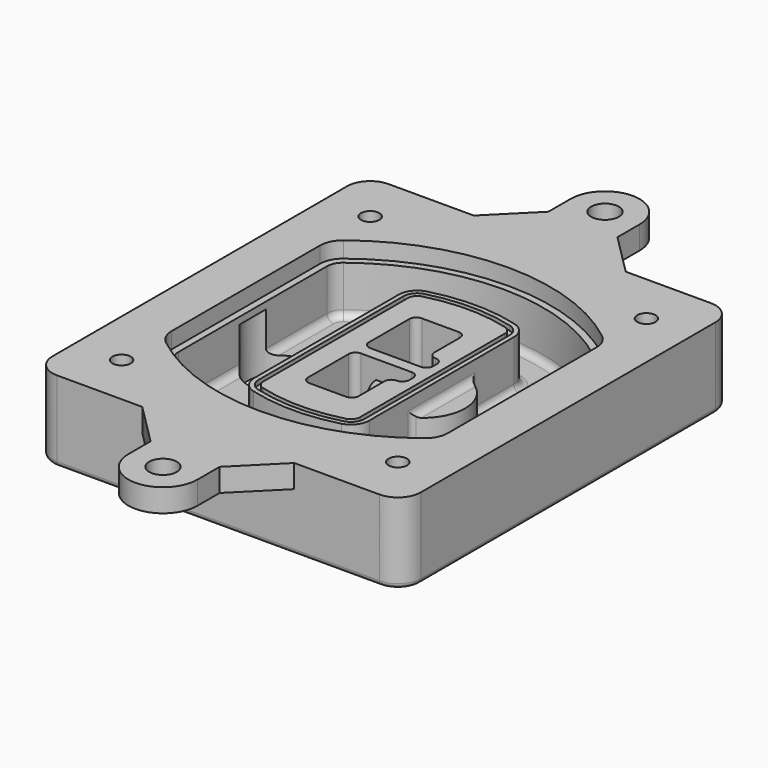
from build123d import *

# Parameters (mm, degrees)
F0_R      = 4
F1_DEPTH  = 25
F2_DEPTH  = 3
F3_DEPTH  = 18
F5_DEPTH  = 21
F6_DEPTH  = 2
F8_DEPTH  = 20
F9_DEPTH  = 16
F10_DEPTH = 25
F7_R      = 6
F7_R_2    = 4
F11_DEPTH = 6
F13_DEPTH = 9
F14_R     = 3
F15_R     = 2
F16_R     = 4
F16_R_2   = 6
F17_DEPTH = 10


with BuildPart() as f1:
    # F0 (on Top) → F1 (new body)
    with BuildSketch(Plane.XY):
        with BuildLine():
            ThreePointArc((-80, -80), (-77.0710678119, -87.0710678119), (-70, -90))
            Line((-70, -90), (70, -90))
            ThreePointArc((70, -90), (77.0710678119, -87.0710678119), (80, -80))
            Line((80, -80), (80, 80))
            ThreePointArc((80, 80), (77.0710678119, 87.0710678119), (70, 90))
            Line((70, 90), (-70, 90))
            ThreePointArc((-70, 90), (-77.0710678119, 87.0710678119), (-80, 80))
            Line((-80, 80), (-80, -80))
        make_face()
        with Locations((-60, -67.5)):
            Circle(F0_R, mode=Mode.SUBTRACT)
        with Locations((60, -67.5)):
            Circle(F0_R, mode=Mode.SUBTRACT)
        with Locations((-60, 67.5)):
            Circle(F0_R, mode=Mode.SUBTRACT)
        with BuildLine():
            ThreePointArc((-64, 40.2934422872), (-62.5820384798, 46.4328484224), (-58.6153846154, 51.3286200352))
            ThreePointArc((-58.6153846154, 51.3286200352), (0, 71.5), (58.6153846154, 51.3286200352))
            ThreePointArc((58.6153846154, 51.3286200352), (62.5820384798, 46.4328484224), (64, 40.2934422872))
            Line((64, 40.2934422872), (64, -40.2934422872))
            ThreePointArc((64, -40.2934422872), (62.5820384798, -46.4328484224), (58.6153846154, -51.3286200352))
            ThreePointArc((58.6153846154, -51.3286200352), (0, -71.5), (-58.6153846154, -51.3286200352))
            ThreePointArc((-58.6153846154, -51.3286200352), (-62.5820384798, -46.4328484224), (-64, -40.2934422872))
            Line((-64, -40.2934422872), (-64, 40.2934422872))
        make_face(mode=Mode.SUBTRACT)
        with Locations((60, 67.5)):
            Circle(F0_R, mode=Mode.SUBTRACT)
        with BuildLine():
            ThreePointArc((58.6153846154, 51.3286200352), (0, 71.5), (-58.6153846154, 51.3286200352))
            ThreePointArc((-58.6153846154, 51.3286200352), (-62.5820384798, 46.4328484224), (-64, 40.2934422872))
            Line((-64, 40.2934422872), (-64, -40.2934422872))
            ThreePointArc((-64, -40.2934422872), (-62.5820384798, -46.4328484224), (-58.6153846154, -51.3286200352))
            ThreePointArc((-58.6153846154, -51.3286200352), (0, -71.5), (58.6153846154, -51.3286200352))
            ThreePointArc((58.6153846154, -51.3286200352), (62.5820384798, -46.4328484224), (64, -40.2934422872))
            Line((64, -40.2934422872), (64, 40.2934422872))
            ThreePointArc((64, 40.2934422872), (62.5820384798, 46.4328484224), (58.6153846154, 51.3286200352))
        make_face()
        with BuildLine():
            Line((-60, -40.2934422872), (-60, 40.2934422872))
            ThreePointArc((-60, 40.2934422872), (-58.9871703427, 44.6787323838), (-56.1538461538, 48.1757121072))
            ThreePointArc((-56.1538461538, 48.1757121072), (0, 67.5), (56.1538461538, 48.1757121072))
            ThreePointArc((56.1538461538, 48.1757121072), (58.9871703427, 44.6787323838), (60, 40.2934422872))
            Line((60, 40.2934422872), (60, -40.2934422872))
            ThreePointArc((60, -40.2934422872), (58.9871703427, -44.6787323838), (56.1538461538, -48.1757121072))
            ThreePointArc((56.1538461538, -48.1757121072), (0, -67.5), (-56.1538461538, -48.1757121072))
            ThreePointArc((-56.1538461538, -48.1757121072), (-58.9871703427, -44.6787323838), (-60, -40.2934422872))
        make_face(mode=Mode.SUBTRACT)
        with BuildLine():
            ThreePointArc((-56.1538461538, 48.1757121072), (-58.9871703427, 44.6787323838), (-60, 40.2934422872))
            Line((-60, 40.2934422872), (-60, -40.2934422872))
            ThreePointArc((-60, -40.2934422872), (-58.9871703427, -44.6787323838), (-56.1538461538, -48.1757121072))
            ThreePointArc((-56.1538461538, -48.1757121072), (0, -67.5), (56.1538461538, -48.1757121072))
            ThreePointArc((56.1538461538, -48.1757121072), (58.9871703427, -44.6787323838), (60, -40.2934422872))
            Line((60, -40.2934422872), (60, 40.2934422872))
            ThreePointArc((60, 40.2934422872), (58.9871703427, 44.6787323838), (56.1538461538, 48.1757121072))
            ThreePointArc((56.1538461538, 48.1757121072), (0, 67.5), (-56.1538461538, 48.1757121072))
        make_face()
        with BuildLine():
            ThreePointArc((54.3076923077, 45.8110311612), (56.2910192399, 43.3631453548), (57, 40.2934422872))
            Line((57, 40.2934422872), (57, -40.2934422872))
            ThreePointArc((57, -40.2934422872), (56.2910192399, -43.3631453548), (54.3076923077, -45.8110311612))
            ThreePointArc((54.3076923077, -45.8110311612), (0, -64.5), (-54.3076923077, -45.8110311612))
            ThreePointArc((-54.3076923077, -45.8110311612), (-56.2910192399, -43.3631453548), (-57, -40.2934422872))
            Line((-57, -40.2934422872), (-57, 40.2934422872))
            ThreePointArc((-57, 40.2934422872), (-56.2910192399, 43.3631453548), (-54.3076923077, 45.8110311612))
            ThreePointArc((-54.3076923077, 45.8110311612), (0, 64.5), (54.3076923077, 45.8110311612))
        make_face(mode=Mode.SUBTRACT)
        with BuildLine():
            Line((57, -40.2934422872), (57, 40.2934422872))
            ThreePointArc((57, 40.2934422872), (56.2910192399, 43.3631453548), (54.3076923077, 45.8110311612))
            ThreePointArc((54.3076923077, 45.8110311612), (0, 64.5), (-54.3076923077, 45.8110311612))
            ThreePointArc((-54.3076923077, 45.8110311612), (-56.2910192399, 43.3631453548), (-57, 40.2934422872))
            Line((-57, 40.2934422872), (-57, -40.2934422872))
            ThreePointArc((-57, -40.2934422872), (-56.2910192399, -43.3631453548), (-54.3076923077, -45.8110311612))
            ThreePointArc((-54.3076923077, -45.8110311612), (0, -64.5), (54.3076923077, -45.8110311612))
            ThreePointArc((54.3076923077, -45.8110311612), (56.2910192399, -43.3631453548), (57, -40.2934422872))
        make_face()
    extrude(amount=-F1_DEPTH)

    # F0 (on Top) → F2 (join)
    with BuildSketch(Plane.XY):
        with BuildLine():
            ThreePointArc((-56.1538461538, 48.1757121072), (-58.9871703427, 44.6787323838), (-60, 40.2934422872))
            Line((-60, 40.2934422872), (-60, -40.2934422872))
            ThreePointArc((-60, -40.2934422872), (-58.9871703427, -44.6787323838), (-56.1538461538, -48.1757121072))
            ThreePointArc((-56.1538461538, -48.1757121072), (0, -67.5), (56.1538461538, -48.1757121072))
            ThreePointArc((56.1538461538, -48.1757121072), (58.9871703427, -44.6787323838), (60, -40.2934422872))
            Line((60, -40.2934422872), (60, 40.2934422872))
            ThreePointArc((60, 40.2934422872), (58.9871703427, 44.6787323838), (56.1538461538, 48.1757121072))
            ThreePointArc((56.1538461538, 48.1757121072), (0, 67.5), (-56.1538461538, 48.1757121072))
        make_face()
        with BuildLine():
            ThreePointArc((54.3076923077, 45.8110311612), (56.2910192399, 43.3631453548), (57, 40.2934422872))
            Line((57, 40.2934422872), (57, -40.2934422872))
            ThreePointArc((57, -40.2934422872), (56.2910192399, -43.3631453548), (54.3076923077, -45.8110311612))
            ThreePointArc((54.3076923077, -45.8110311612), (0, -64.5), (-54.3076923077, -45.8110311612))
            ThreePointArc((-54.3076923077, -45.8110311612), (-56.2910192399, -43.3631453548), (-57, -40.2934422872))
            Line((-57, -40.2934422872), (-57, 40.2934422872))
            ThreePointArc((-57, 40.2934422872), (-56.2910192399, 43.3631453548), (-54.3076923077, 45.8110311612))
            ThreePointArc((-54.3076923077, 45.8110311612), (0, 64.5), (54.3076923077, 45.8110311612))
        make_face(mode=Mode.SUBTRACT)
    extrude(amount=F2_DEPTH)

    # F0 (on Top) → F3 (cut)
    with BuildSketch(Plane.XY):
        with BuildLine():
            Line((57, -40.2934422872), (57, 40.2934422872))
            ThreePointArc((57, 40.2934422872), (56.2910192399, 43.3631453548), (54.3076923077, 45.8110311612))
            ThreePointArc((54.3076923077, 45.8110311612), (0, 64.5), (-54.3076923077, 45.8110311612))
            ThreePointArc((-54.3076923077, 45.8110311612), (-56.2910192399, 43.3631453548), (-57, 40.2934422872))
            Line((-57, 40.2934422872), (-57, -40.2934422872))
            ThreePointArc((-57, -40.2934422872), (-56.2910192399, -43.3631453548), (-54.3076923077, -45.8110311612))
            ThreePointArc((-54.3076923077, -45.8110311612), (0, -64.5), (54.3076923077, -45.8110311612))
            ThreePointArc((54.3076923077, -45.8110311612), (56.2910192399, -43.3631453548), (57, -40.2934422872))
        make_face()
    extrude(amount=-F3_DEPTH, mode=Mode.SUBTRACT)

    # F4 (on face) → F5 (join, through all)
    with BuildSketch(Plane.XY.offset(3)):
        with BuildLine():
            ThreePointArc((-25, -39.2465276821), (-23.3511545998, -44.1109737193), (-19.0842911877, -46.9702398883))
            ThreePointArc((-19.0842911877, -46.9702398883), (0, -49.5), (19.0842911877, -46.9702398883))
            ThreePointArc((19.0842911877, -46.9702398883), (23.3511545998, -44.1109737193), (25, -39.2465276821))
            Line((25, -39.2465276821), (25, 39.2465276821))
            ThreePointArc((25, 39.2465276821), (23.3511545998, 44.1109737193), (19.0842911877, 46.9702398883))
            ThreePointArc((19.0842911877, 46.9702398883), (0, 49.5), (-19.0842911877, 46.9702398883))
            ThreePointArc((-19.0842911877, 46.9702398883), (-23.3511545998, 44.1109737193), (-25, 39.2465276821))
            Line((-25, 39.2465276821), (-25, -39.2465276821))
        make_face()
        with BuildLine():
            ThreePointArc((18.5632183908, 45.0393118368), (21.7633659499, 42.89486221), (23, 39.2465276821))
            Line((23, 39.2465276821), (23, -39.2465276821))
            ThreePointArc((23, -39.2465276821), (21.7633659499, -42.89486221), (18.5632183908, -45.0393118368))
            ThreePointArc((18.5632183908, -45.0393118368), (0, -47.5), (-18.5632183908, -45.0393118368))
            ThreePointArc((-18.5632183908, -45.0393118368), (-21.7633659499, -42.89486221), (-23, -39.2465276821))
            Line((-23, -39.2465276821), (-23, 39.2465276821))
            ThreePointArc((-23, 39.2465276821), (-21.7633659499, 42.89486221), (-18.5632183908, 45.0393118368))
            ThreePointArc((-18.5632183908, 45.0393118368), (0, 47.5), (18.5632183908, 45.0393118368))
        make_face(mode=Mode.SUBTRACT)
        with BuildLine():
            Line((23, -39.2465276821), (23, 39.2465276821))
            ThreePointArc((23, 39.2465276821), (21.7633659499, 42.89486221), (18.5632183908, 45.0393118368))
            ThreePointArc((18.5632183908, 45.0393118368), (0, 47.5), (-18.5632183908, 45.0393118368))
            ThreePointArc((-18.5632183908, 45.0393118368), (-21.7633659499, 42.89486221), (-23, 39.2465276821))
            Line((-23, 39.2465276821), (-23, -39.2465276821))
            ThreePointArc((-23, -39.2465276821), (-21.7633659499, -42.89486221), (-18.5632183908, -45.0393118368))
            ThreePointArc((-18.5632183908, -45.0393118368), (0, -47.5), (18.5632183908, -45.0393118368))
            ThreePointArc((18.5632183908, -45.0393118368), (21.7633659499, -42.89486221), (23, -39.2465276821))
        make_face()
        with BuildLine():
            ThreePointArc((18.0421455939, 43.1083837852), (20.1755772999, 41.6787507007), (21, 39.2465276821))
            Line((21, 39.2465276821), (21, -39.2465276821))
            ThreePointArc((21, -39.2465276821), (20.1755772999, -41.6787507007), (18.0421455939, -43.1083837852))
            ThreePointArc((18.0421455939, -43.1083837852), (0, -45.5), (-18.0421455939, -43.1083837852))
            ThreePointArc((-18.0421455939, -43.1083837852), (-20.1755772999, -41.6787507007), (-21, -39.2465276821))
            Line((-21, -39.2465276821), (-21, 39.2465276821))
            ThreePointArc((-21, 39.2465276821), (-20.1755772999, 41.6787507007), (-18.0421455939, 43.1083837852))
            ThreePointArc((-18.0421455939, 43.1083837852), (0, 45.5), (18.0421455939, 43.1083837852))
        make_face(mode=Mode.SUBTRACT)
        with BuildLine():
            Line((21, -39.2465276821), (21, 39.2465276821))
            ThreePointArc((21, 39.2465276821), (20.1755772999, 41.6787507007), (18.0421455939, 43.1083837852))
            ThreePointArc((18.0421455939, 43.1083837852), (0, 45.5), (-18.0421455939, 43.1083837852))
            ThreePointArc((-18.0421455939, 43.1083837852), (-20.1755772999, 41.6787507007), (-21, 39.2465276821))
            Line((-21, 39.2465276821), (-21, -39.2465276821))
            ThreePointArc((-21, -39.2465276821), (-20.1755772999, -41.6787507007), (-18.0421455939, -43.1083837852))
            ThreePointArc((-18.0421455939, -43.1083837852), (0, -45.5), (18.0421455939, -43.1083837852))
            ThreePointArc((18.0421455939, -43.1083837852), (20.1755772999, -41.6787507007), (21, -39.2465276821))
        make_face()
        with BuildLine():
            Line((-8, -2.5), (14, -2.5))
            ThreePointArc((14, -2.5), (16.1213203436, -3.3786796564), (17, -5.5))
            Line((17, -5.5), (17, -7.5))
            ThreePointArc((17, -7.5), (16.1213203436, -9.6213203436), (14, -10.5))
            ThreePointArc((14, -10.5), (11.8786796564, -11.3786796564), (11, -13.5))
            Line((11, -13.5), (11, -27.5))
            ThreePointArc((11, -27.5), (10.1213203436, -29.6213203436), (8, -30.5))
            Line((8, -30.5), (-8, -30.5))
            ThreePointArc((-8, -30.5), (-10.1213203436, -29.6213203436), (-11, -27.5))
            Line((-11, -27.5), (-11, -5.5))
            ThreePointArc((-11, -5.5), (-10.1213203436, -3.3786796564), (-8, -2.5))
        make_face(mode=Mode.SUBTRACT)
        with BuildLine():
            ThreePointArc((-8, 2.5), (-10.1213203436, 3.3786796564), (-11, 5.5))
            Line((-11, 5.5), (-11, 27.5))
            ThreePointArc((-11, 27.5), (-10.1213203436, 29.6213203436), (-8, 30.5))
            Line((-8, 30.5), (8, 30.5))
            ThreePointArc((8, 30.5), (10.1213203436, 29.6213203436), (11, 27.5))
            Line((11, 27.5), (11, 13.5))
            ThreePointArc((11, 13.5), (11.8786796564, 11.3786796564), (14, 10.5))
            ThreePointArc((14, 10.5), (16.1213203436, 9.6213203436), (17, 7.5))
            Line((17, 7.5), (17, 5.5))
            ThreePointArc((17, 5.5), (16.1213203436, 3.3786796564), (14, 2.5))
            Line((14, 2.5), (-8, 2.5))
        make_face(mode=Mode.SUBTRACT)
    extrude(amount=-F5_DEPTH)

    # F4 (on face) → F6 (cut)
    with BuildSketch(Plane.XY.offset(3)):
        with BuildLine():
            Line((23, -39.2465276821), (23, 39.2465276821))
            ThreePointArc((23, 39.2465276821), (21.7633659499, 42.89486221), (18.5632183908, 45.0393118368))
            ThreePointArc((18.5632183908, 45.0393118368), (0, 47.5), (-18.5632183908, 45.0393118368))
            ThreePointArc((-18.5632183908, 45.0393118368), (-21.7633659499, 42.89486221), (-23, 39.2465276821))
            Line((-23, 39.2465276821), (-23, -39.2465276821))
            ThreePointArc((-23, -39.2465276821), (-21.7633659499, -42.89486221), (-18.5632183908, -45.0393118368))
            ThreePointArc((-18.5632183908, -45.0393118368), (0, -47.5), (18.5632183908, -45.0393118368))
            ThreePointArc((18.5632183908, -45.0393118368), (21.7633659499, -42.89486221), (23, -39.2465276821))
        make_face()
        with BuildLine():
            ThreePointArc((18.0421455939, 43.1083837852), (20.1755772999, 41.6787507007), (21, 39.2465276821))
            Line((21, 39.2465276821), (21, -39.2465276821))
            ThreePointArc((21, -39.2465276821), (20.1755772999, -41.6787507007), (18.0421455939, -43.1083837852))
            ThreePointArc((18.0421455939, -43.1083837852), (0, -45.5), (-18.0421455939, -43.1083837852))
            ThreePointArc((-18.0421455939, -43.1083837852), (-20.1755772999, -41.6787507007), (-21, -39.2465276821))
            Line((-21, -39.2465276821), (-21, 39.2465276821))
            ThreePointArc((-21, 39.2465276821), (-20.1755772999, 41.6787507007), (-18.0421455939, 43.1083837852))
            ThreePointArc((-18.0421455939, 43.1083837852), (0, 45.5), (18.0421455939, 43.1083837852))
        make_face(mode=Mode.SUBTRACT)
    extrude(amount=-F6_DEPTH, mode=Mode.SUBTRACT)

    # F7 (on face) → F8 (join)
    with BuildSketch(Plane(origin=(0, 0, -25), x_dir=(1, 0, 0), z_dir=(0, 0, -1))):
        with BuildLine():
            ThreePointArc((3.28842436, 0), (16.7567035675, 13.4682792075), (30.224982775, 0))
            Line((30.224982775, 0), (35.224982775, 0))
            ThreePointArc((35.224982775, 0), (16.7567035675, 18.4682792075), (-1.71157564, 0))
            Line((-1.71157564, 0), (3.28842436, 0))
        make_face()
        with BuildLine():
            Line((3.28842436, 0), (30.224982775, 0))
            ThreePointArc((30.224982775, 0), (16.7567035675, 13.4682792075), (3.28842436, 0))
        make_face()
        with BuildLine():
            ThreePointArc((3.28842436, 0), (16.7567035675, -13.4682792075), (30.224982775, 0))
            Line((30.224982775, 0), (3.28842436, 0))
        make_face()
        with BuildLine():
            Line((35.224982775, 0), (30.224982775, 0))
            ThreePointArc((30.224982775, 0), (16.7567035675, -13.4682792075), (3.28842436, 0))
            Line((3.28842436, 0), (-1.71157564, 0))
            ThreePointArc((-1.71157564, 0), (16.7567035675, -18.4682792075), (35.224982775, 0))
        make_face()
    extrude(amount=-F8_DEPTH)

    # F7 (on face) → F9 (cut)
    with BuildSketch(Plane(origin=(0, 0, -25), x_dir=(1, 0, 0), z_dir=(0, 0, -1))):
        with BuildLine():
            Line((3.28842436, 0), (30.224982775, 0))
            ThreePointArc((30.224982775, 0), (16.7567035675, 13.4682792075), (3.28842436, 0))
        make_face()
        with BuildLine():
            ThreePointArc((3.28842436, 0), (16.7567035675, -13.4682792075), (30.224982775, 0))
            Line((30.224982775, 0), (3.28842436, 0))
        make_face()
    extrude(amount=-F9_DEPTH, mode=Mode.SUBTRACT)

    # F7 (on face) → F10 (cut)
    with BuildSketch(Plane(origin=(0, 0, -25), x_dir=(1, 0, 0), z_dir=(0, 0, -1))):
        with BuildLine():
            Line((-59.0318229325, 0), (-32.0952645175, 0))
            ThreePointArc((-32.0952645175, 0), (-45.563543725, 13.4682792075), (-59.0318229325, 0))
        make_face()
        with BuildLine():
            ThreePointArc((-59.0318229325, 0), (-45.563543725, -13.4682792075), (-32.0952645175, 0))
            Line((-32.0952645175, 0), (-59.0318229325, 0))
        make_face()
    extrude(amount=-F10_DEPTH, mode=Mode.SUBTRACT)

    # F7 (on face) → F11 (cut)
    with BuildSketch(Plane(origin=(0, 0, -25), x_dir=(1, 0, 0), z_dir=(0, 0, -1))):
        with Locations((60, -67.5)):
            Circle(F7_R)
        with Locations((60, -67.5)):
            Circle(F7_R_2, mode=Mode.SUBTRACT)
        with Locations((60, -67.5)):
            Circle(F7_R)
        with Locations((60, -67.5)):
            Circle(F7_R_2, mode=Mode.SUBTRACT)
        with Locations((-60, -67.5)):
            Circle(F7_R)
        with Locations((-60, -67.5)):
            Circle(F7_R_2, mode=Mode.SUBTRACT)
        with Locations((-60, -67.5)):
            Circle(F7_R)
        with Locations((-60, -67.5)):
            Circle(F7_R_2, mode=Mode.SUBTRACT)
        with Locations((-60, 67.5)):
            Circle(F7_R)
        with Locations((-60, 67.5)):
            Circle(F7_R_2, mode=Mode.SUBTRACT)
        with Locations((-60, 67.5)):
            Circle(F7_R)
        with Locations((-60, 67.5)):
            Circle(F7_R_2, mode=Mode.SUBTRACT)
        with Locations((60, 67.5)):
            Circle(F7_R)
        with Locations((60, 67.5)):
            Circle(F7_R_2, mode=Mode.SUBTRACT)
        with Locations((60, 67.5)):
            Circle(F7_R)
        with Locations((60, 67.5)):
            Circle(F7_R_2, mode=Mode.SUBTRACT)
    extrude(amount=-F11_DEPTH, mode=Mode.SUBTRACT)

    # F12 (on face) → F13 (cut, through all)
    with BuildSketch(Plane(origin=(0, 0, -9), x_dir=(1, 0, 0), z_dir=(0, 0, -1))):
        with BuildLine():
            Line((11, 13.5), (11, 17.5481537753))
            ThreePointArc((11, 17.5481537753), (2.5696536419, 11.8239143813), (-1.5415842455, 2.5))
            Line((-1.5415842455, 2.5), (3.5224848595, 2.5))
            ThreePointArc((3.5224848595, 2.5), (6.1857188154, 8.3455872281), (11.2536447004, 12.2927168648))
            ThreePointArc((11.2536447004, 12.2927168648), (11.0640958889, 12.8831798879), (11, 13.5))
        make_face()
        with BuildLine():
            ThreePointArc((11.2536447004, -12.2927168648), (6.1857188154, -8.3455872281), (3.5224848595, -2.5))
            Line((3.5224848595, -2.5), (-1.5415842455, -2.5))
            ThreePointArc((-1.5415842455, -2.5), (2.5696536419, -11.8239143813), (11, -17.5481537753))
            Line((11, -17.5481537753), (11, -13.5))
            ThreePointArc((11, -13.5), (11.0640958889, -12.8831798879), (11.2536447004, -12.2927168648))
        make_face()
        with BuildLine():
            ThreePointArc((11.2536447004, 12.2927168648), (6.1857188154, 8.3455872281), (3.5224848595, 2.5))
            Line((3.5224848595, 2.5), (14, 2.5))
            ThreePointArc((14, 2.5), (16.1213203436, 3.3786796564), (17, 5.5))
            Line((17, 5.5), (17, 7.5))
            ThreePointArc((17, 7.5), (16.1213203436, 9.6213203436), (14, 10.5))
            ThreePointArc((14, 10.5), (12.3601599782, 10.9878446101), (11.2536447004, 12.2927168648))
        make_face()
        with BuildLine():
            Line((14, -2.5), (3.5224848595, -2.5))
            ThreePointArc((3.5224848595, -2.5), (6.1857188154, -8.3455872281), (11.2536447004, -12.2927168648))
            ThreePointArc((11.2536447004, -12.2927168648), (12.3601599782, -10.9878446101), (14, -10.5))
            ThreePointArc((14, -10.5), (16.1213203436, -9.6213203436), (17, -7.5))
            Line((17, -7.5), (17, -5.5))
            ThreePointArc((17, -5.5), (16.1213203436, -3.3786796564), (14, -2.5))
        make_face()
    extrude(amount=F13_DEPTH, mode=Mode.SUBTRACT)

    # F14
    f14_edges = [f1.edges().sort_by_distance(p)[0] for p in [
        (-57, -23.703476, -18),
        (-57, 23.703476, -18),
        (25, 0, -5),
        (25, 16.526506, -11.5),
        (25, -16.526506, -11.5),
        (25, -27.886517, -18),
        (35.224983, 0, -18),
    ]]
    fillet(f14_edges, radius=F14_R)

    # F15
    f15_edges = [f1.edges().sort_by_distance(p)[0] for p in [
        (0, -90, -25),
    ]]
    fillet(f15_edges, radius=F15_R)

    # F16 (on face) → F17 (join)
    with BuildSketch(Plane.XY):
        with BuildLine():
            Line((70, 90), (33, 90))
            Line((33, 90), (-33, 90))
            Line((-33, 90), (-70, 90))
            ThreePointArc((-70, 90), (-77.0710678119, 87.0710678119), (-80, 80))
            Line((-80, 80), (-80, -80))
            ThreePointArc((-80, -80), (-77.0710678119, -87.0710678119), (-70, -90))
            Line((-70, -90), (-33, -90))
            Line((-33, -90), (33, -90))
            Line((33, -90), (70, -90))
            ThreePointArc((70, -90), (77.0710678119, -87.0710678119), (80, -80))
            Line((80, -80), (80, 80))
            ThreePointArc((80, 80), (77.0710678119, 87.0710678119), (70, 90))
        make_face()
        with Locations((-60, -67.5)):
            Circle(F16_R, mode=Mode.SUBTRACT)
        with Locations((60, -67.5)):
            Circle(F16_R, mode=Mode.SUBTRACT)
        with Locations((-60, 67.5)):
            Circle(F16_R, mode=Mode.SUBTRACT)
        with BuildLine():
            ThreePointArc((-60, 40.2934422872), (-58.9871703427, 44.6787323838), (-56.1538461538, 48.1757121072))
            ThreePointArc((-56.1538461538, 48.1757121072), (0, 67.5), (56.1538461538, 48.1757121072))
            ThreePointArc((56.1538461538, 48.1757121072), (58.9871703427, 44.6787323838), (60, 40.2934422872))
            Line((60, 40.2934422872), (60, -40.2934422872))
            ThreePointArc((60, -40.2934422872), (58.9871703427, -44.6787323838), (56.1538461538, -48.1757121072))
            ThreePointArc((56.1538461538, -48.1757121072), (0, -67.5), (-56.1538461538, -48.1757121072))
            ThreePointArc((-56.1538461538, -48.1757121072), (-58.9871703427, -44.6787323838), (-60, -40.2934422872))
            Line((-60, -40.2934422872), (-60, 40.2934422872))
        make_face(mode=Mode.SUBTRACT)
        with Locations((60, 67.5)):
            Circle(F16_R, mode=Mode.SUBTRACT)
        with BuildLine():
            Line((15, 108), (15, 120))
            ThreePointArc((15, 120), (0, 135), (-15, 120))
            Line((-15, 120), (-15, 108))
            Line((-15, 108), (-33, 90))
            Line((-33, 90), (33, 90))
            Line((33, 90), (15, 108))
        make_face()
        with Locations((0, 120)):
            Circle(F16_R_2, mode=Mode.SUBTRACT)
        with BuildLine():
            Line((15, -108), (33, -90))
            Line((33, -90), (-33, -90))
            Line((-33, -90), (-15, -108))
            Line((-15, -108), (-15, -120))
            ThreePointArc((-15, -120), (0, -135), (15, -120))
            Line((15, -120), (15, -108))
        make_face()
        with Locations((0, -120)):
            Circle(F16_R_2, mode=Mode.SUBTRACT)
    extrude(amount=F17_DEPTH)


solid = f1.part
